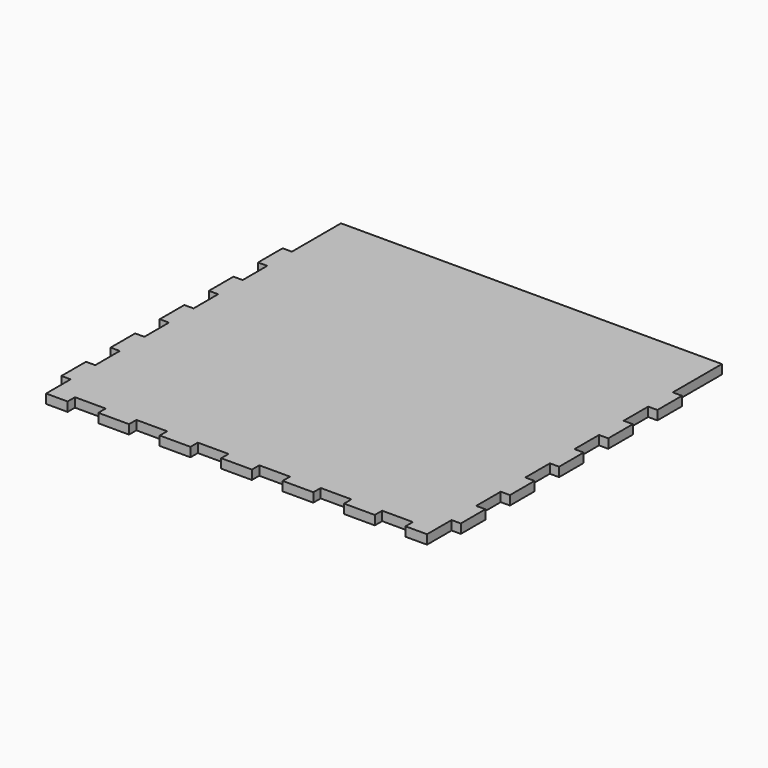
from build123d import *

# Parameters (mm, degrees)
F0_W     = 130
F0_H     = 120
F2_DEPTH = 3
F1_W     = 3
F1_H     = 10
F3_DEPTH = 25
F4_W     = 10
F4_H     = 3
F5_DEPTH = 25
F6_W     = 3
F6_H     = 10
F7_DEPTH = 25


with BuildPart() as f2:
    # F0 (on Top) → F2 (new body)
    with BuildSketch(Plane.XY):
        Rectangle(F0_W, F0_H)
    extrude(amount=F2_DEPTH)

    # F1 (on face) → F3 (cut)
    with BuildSketch(Plane.XY):
        with Locations((63.5, -55)):
            Rectangle(F1_W, F1_H)
        with Locations((63.5, -35)):
            Rectangle(F1_W, F1_H)
        with Locations((63.5, -15)):
            Rectangle(F1_W, F1_H)
        with Locations((63.5, 5)):
            Rectangle(F1_W, F1_H)
        with Locations((63.5, 25)):
            Rectangle(F1_W, F1_H)
        with Locations((63.5, 45)):
            Rectangle(F1_W, F1_H)
        with Locations((-63.5, -55)):
            Rectangle(F1_W, F1_H)
        with Locations((-63.5, 25)):
            Rectangle(F1_W, F1_H)
        with Locations((-63.5, 5)):
            Rectangle(F1_W, F1_H)
        with Locations((-63.5, -15)):
            Rectangle(F1_W, F1_H)
        with Locations((-63.5, 45)):
            Rectangle(F1_W, F1_H)
        with Locations((-63.5, -35)):
            Rectangle(F1_W, F1_H)
    extrude(amount=F3_DEPTH, mode=Mode.SUBTRACT)

    # F4 (on face) → F5 (cut)
    with BuildSketch(Plane.XY.offset(3)):
        with Locations((-50, -58.5)):
            Rectangle(F4_W, F4_H)
        with Locations((-30, -58.5)):
            Rectangle(F4_W, F4_H)
        with Locations((-10, -58.5)):
            Rectangle(F4_W, F4_H)
        with Locations((10, -58.5)):
            Rectangle(F4_W, F4_H)
        with Locations((30, -58.5)):
            Rectangle(F4_W, F4_H)
        with Locations((50, -58.5)):
            Rectangle(F4_W, F4_H)
    extrude(amount=-F5_DEPTH, mode=Mode.SUBTRACT)

    # F6 (on face) → F7 (cut)
    with BuildSketch(Plane.XY.offset(3)):
        with Locations((63.5, 55)):
            Rectangle(F6_W, F6_H)
        with Locations((-63.5, 55)):
            Rectangle(F6_W, F6_H)
    extrude(amount=-F7_DEPTH, mode=Mode.SUBTRACT)


solid = f2.part
